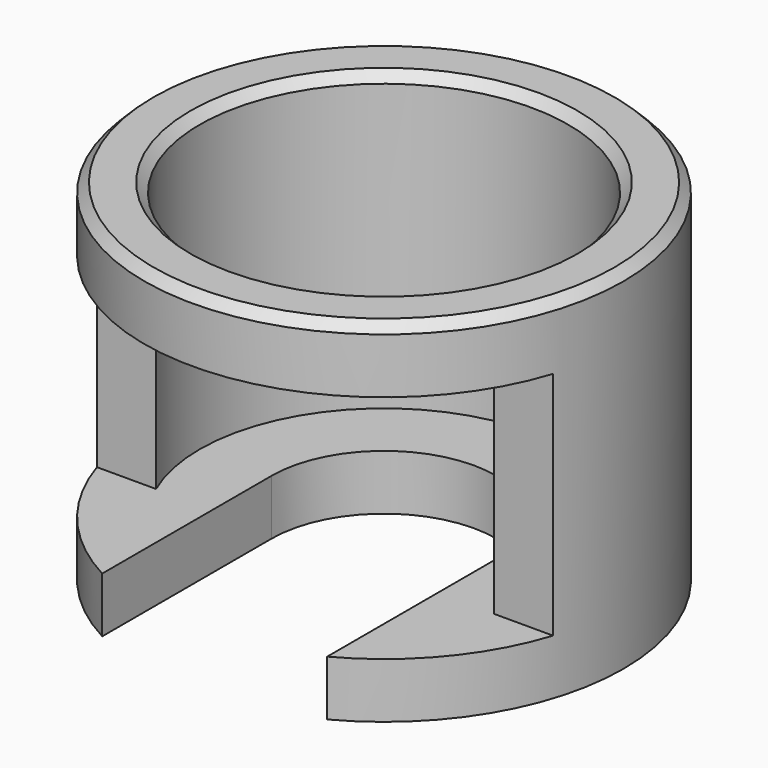
from build123d import *

# Parameters (mm, degrees)
F2_SIZE  = 0.5
F3_SIZE  = 0.5
F5_DEPTH = 20
F6_W     = 16
F6_H     = 12.5
F7_DEPTH = 15


with BuildPart() as f1:
    # F0 (on Front) → F1 (revolve)
    with BuildSketch(Plane.XZ):
        Polygon((10, 16), (10, 0), (6.1, 0), (6.1, -3), (13, -3), (13, 16), align=None)
    revolve(axis=Axis((0, 0, 6.7583965138), (0, 0, -1)))

    # F2
    f2_edges = [f1.edges().sort_by_distance(p)[0] for p in [
        (-13, 0, 16),
    ]]
    chamfer(f2_edges, length=F2_SIZE)

    # F3
    f3_edges = [f1.edges().sort_by_distance(p)[0] for p in [
        (-10, 0, 16),
    ]]
    chamfer(f3_edges, length=F3_SIZE)

    # F4 (on Front) → F5 (cut)
    with BuildSketch(Plane.XZ):
        Polygon((6.1, 0), (6.1, 5), (0, 5), (-6.1, 5), (-6.1, -5.6750147776), (0, -5.6750147776), (6.1, -5.6750147776), align=None)
    extrude(amount=F5_DEPTH, mode=Mode.SUBTRACT)

    # F6 (on Right) → F7 (cut, symmetric)
    with BuildSketch(Plane.YZ):
        with Locations((-12, 6.25)):
            Rectangle(F6_W, F6_H)
    extrude(amount=F7_DEPTH, both=True, mode=Mode.SUBTRACT)


solid = f1.part
